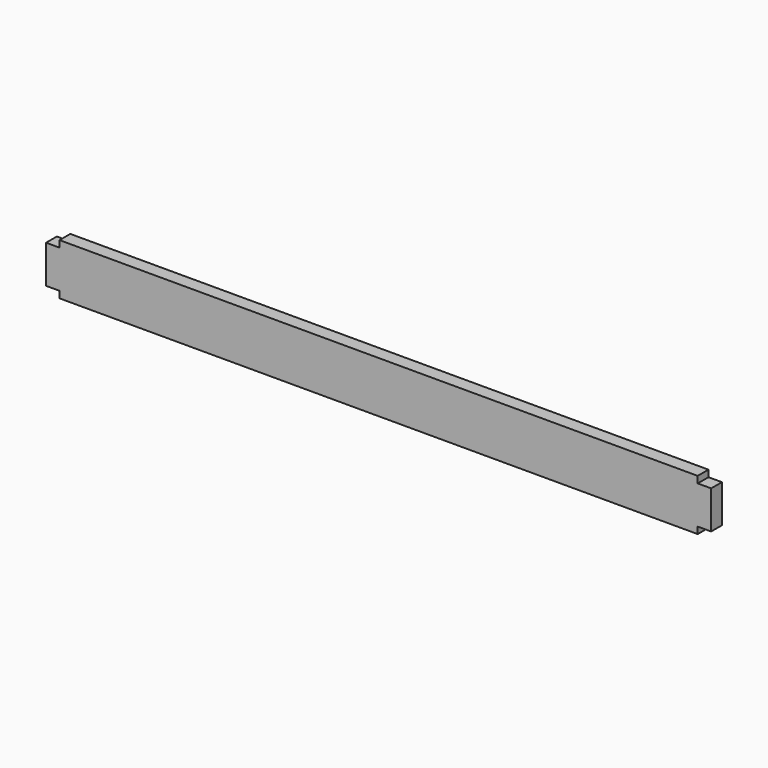
from build123d import *

# Parameters (mm, degrees)
F0_W     = 9
F0_H     = 25.4
F1_DEPTH = 4.5


with BuildPart() as f1:
    # F0 (on Front) → F1 (new body, symmetric)
    with BuildSketch(Plane.XZ):
        Polygon((-213.36, -17.145), (213.36, -17.145), (213.36, -12.7), (213.36, 12.7), (213.36, 17.145), (-213.36, 17.145), (-213.36, 12.7), (-213.36, -12.7), align=None)
        with Locations((-217.86, 0)):
            Rectangle(F0_W, F0_H)
        with Locations((217.86, 0)):
            Rectangle(F0_W, F0_H)
    extrude(amount=F1_DEPTH, both=True)


solid = f1.part
